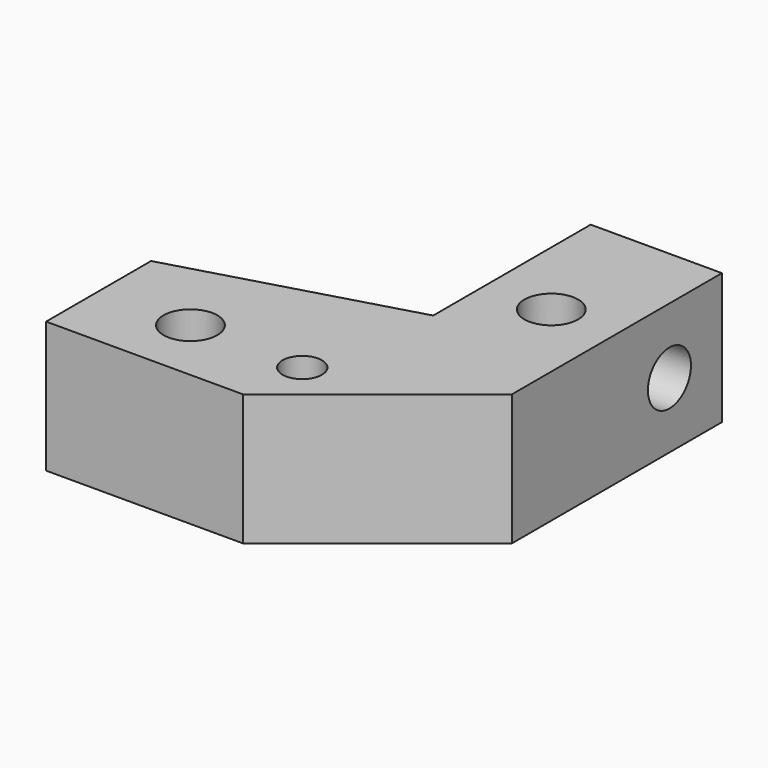
from build123d import *

# Parameters (mm, degrees)
SKETCH_R     = 4.1
SKETCH_R_2   = 3
PAD_DEPTH    = 20
SKETCH001_R  = 4.1
POCKET_DEPTH = 55.001


with BuildPart() as part:
    # Sketch → Pad (new body)
    with BuildSketch(Plane.XY.offset(170)):
        Polygon((-30, 50), (-10, 50), (-10, 10), (-35, -10), (-65, -10), (-65, 10), (-30, 20), align=None)
        with Locations((-51, 0)):
            Circle(SKETCH_R, mode=Mode.SUBTRACT)
        with Locations((-33.8, -0.2)):
            Circle(SKETCH_R_2, mode=Mode.SUBTRACT)
        with Locations((-20, 30)):
            Circle(SKETCH_R, mode=Mode.SUBTRACT)
    extrude(amount=PAD_DEPTH)

    # Sketch001 → Pocket (cut, through all)
    with BuildSketch(Plane(origin=(-10, 0, 170), x_dir=(0, 1, 0), z_dir=(1, 0, 0))):
        with Locations((40, 10)):
            Circle(SKETCH001_R)
    extrude(amount=-POCKET_DEPTH, mode=Mode.SUBTRACT)


solid = part.part
